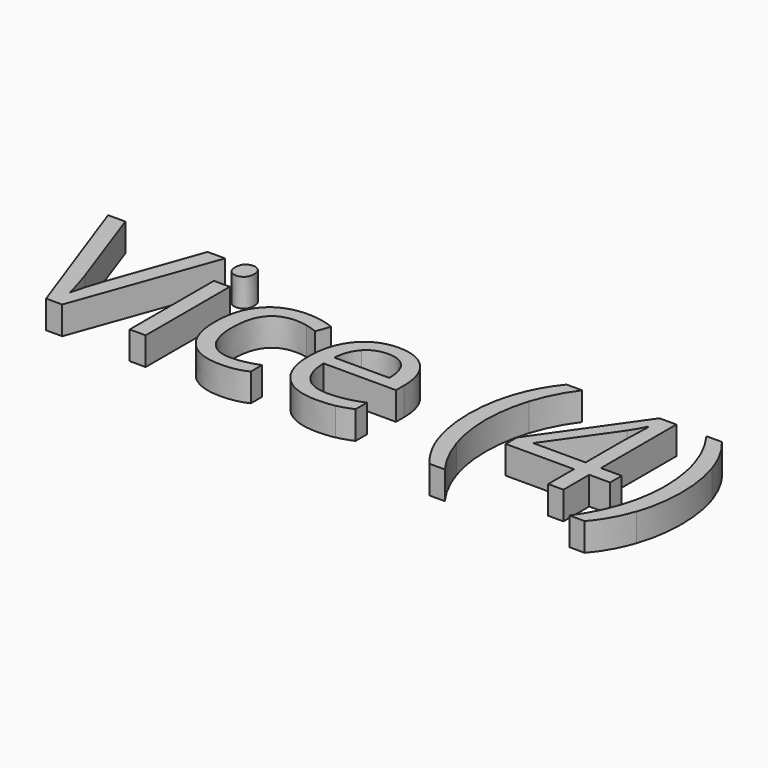
from build123d import *

# Parameters (mm, degrees)
F0_W     = 127
F0_H     = 127
F1_DEPTH = 2.54
F2_W     = 127
F2_H     = 127
F2_W_2   = 1.4493298279
F2_H_2   = 9.564459847
F3_DEPTH = 25.4


with BuildPart() as f1:
    # F0 (on Top) → F1 (new body)
    with BuildSketch(Plane.XY):
        with Locations((63.5, 63.5)):
            Rectangle(F0_W, F0_H)
    extrude(amount=F1_DEPTH)

    # F2 (on face) → F3 (cut)
    with BuildSketch(Plane.XY.offset(2.54)):
        with Locations((63.5, 63.5)):
            Rectangle(F2_W, F2_H)
        with BuildLine():
            Line((57.7609389396, 48.9270723171), (60.6763538535, 57.1315637129))
            Line((60.6763538535, 57.1315637129), (62.2708959186, 57.1315637129))
            Line((62.2708959186, 57.1315637129), (57.6743701059, 44.3724346498))
            Line((57.6743701059, 44.3724346498), (56.2082850199, 44.3724346498))
            Line((56.2082850199, 44.3724346498), (51.6340995514, 57.1315637129))
            Line((51.6340995514, 57.1315637129), (53.2063012723, 57.1315637129))
            Line((53.2063012723, 57.1315637129), (56.1384714444, 48.8768065427))
            add(Edge.make_bspline(
                [(56.1384714444, 48.8768065427), (56.6439217312, 47.452609602), (56.9399312914, 46.1093964089)],
                knots=[0, 0, 0, 1, 1, 1], degree=2))
            add(Edge.make_bspline(
                [(56.9399312914, 46.1093964089), (57.2554886528, 47.5224231775), (57.7609389396, 48.9270723171)],
                knots=[0, 0, 0, 1, 1, 1], degree=2))
        make_face(mode=Mode.SUBTRACT)
        with Locations((64.5314594941, 49.1546645733)):
            Rectangle(F2_W_2, F2_H_2, mode=Mode.SUBTRACT)
        with BuildLine():
            add(Edge.make_bspline(
                [(74.5664628402, 44.6963696402), (73.6086205839, 44.1965044395), (72.150913127, 44.1965044395)],
                knots=[0, 0, 0, 1, 1, 1], degree=2))
            add(Edge.make_bspline(
                [(72.150913127, 44.1965044395), (70.0732611193, 44.1965044395), (68.9339035667, 45.4754891431)],
                knots=[0, 0, 0, 1, 1, 1], degree=2))
            add(Edge.make_bspline(
                [(68.9339035667, 45.4754891431), (67.7945460142, 46.7544738467), (67.7945460142, 49.0946248984)],
                knots=[0, 0, 0, 1, 1, 1], degree=2))
            add(Edge.make_bspline(
                [(67.7945460142, 49.0946248984), (67.7945460142, 51.4934193534), (68.9520550964, 52.8031220303)],
                knots=[0, 0, 0, 1, 1, 1], degree=2))
            add(Edge.make_bspline(
                [(68.9520550964, 52.8031220303), (70.1095641786, 54.1128247072), (72.2458595897, 54.1128247072)],
                knots=[0, 0, 0, 1, 1, 1], degree=2))
            add(Edge.make_bspline(
                [(72.2458595897, 54.1128247072), (72.9356177159, 54.1128247072), (73.6253758421, 53.9634236555)],
                knots=[0, 0, 0, 1, 1, 1], degree=2))
            add(Edge.make_bspline(
                [(73.6253758421, 53.9634236555), (74.3151339683, 53.8140226039), (74.7060899912, 53.6129595064)],
                knots=[0, 0, 0, 1, 1, 1], degree=2))
            Line((74.7060899912, 53.6129595064), (74.2620756509, 52.3842405771))
            add(Edge.make_bspline(
                [(74.2620756509, 52.3842405771), (73.7817582512, 52.5769260456), (73.214872018, 52.7025904815)],
                knots=[0, 0, 0, 1, 1, 1], degree=2))
            add(Edge.make_bspline(
                [(73.214872018, 52.7025904815), (72.6479857847, 52.8282549175), (72.2123490734, 52.8282549175)],
                knots=[0, 0, 0, 1, 1, 1], degree=2))
            add(Edge.make_bspline(
                [(72.2123490734, 52.8282549175), (69.2969341595, 52.8282549175), (69.2969341595, 49.1113801565)],
                knots=[0, 0, 0, 1, 1, 1], degree=2))
            add(Edge.make_bspline(
                [(69.2969341595, 49.1113801565), (69.2969341595, 47.3492855102), (70.0076363583, 46.4068022406)],
                knots=[0, 0, 0, 1, 1, 1], degree=2))
            add(Edge.make_bspline(
                [(70.0076363583, 46.4068022406), (70.7183385572, 45.464318971), (72.1146100677, 45.464318971)],
                knots=[0, 0, 0, 1, 1, 1], degree=2))
            add(Edge.make_bspline(
                [(72.1146100677, 45.464318971), (73.3098184807, 45.464318971), (74.5664628402, 45.9781468869)],
                knots=[0, 0, 0, 1, 1, 1], degree=2))
            Line((74.5664628402, 45.9781468869), (74.5664628402, 44.6963696402))
        make_face(mode=Mode.SUBTRACT)
        with BuildLine():
            add(Edge.make_bspline(
                [(63.9282702015, 55.7995206919), (63.6839226872, 56.0396793917), (63.6839226872, 56.5283744204)],
                knots=[0, 0, 0, 1, 1, 1], degree=2))
            add(Edge.make_bspline(
                [(63.6839226872, 56.5283744204), (63.6839226872, 57.0254470781), (63.9282702015, 57.2572281488)],
                knots=[0, 0, 0, 1, 1, 1], degree=2))
            add(Edge.make_bspline(
                [(63.9282702015, 57.2572281488), (64.1726177159, 57.4890092196), (64.5412333947, 57.4890092196)],
                knots=[0, 0, 0, 1, 1, 1], degree=2))
            add(Edge.make_bspline(
                [(64.5412333947, 57.4890092196), (64.8903012723, 57.4890092196), (65.1430264157, 57.2530393343)],
                knots=[0, 0, 0, 1, 1, 1], degree=2))
            add(Edge.make_bspline(
                [(65.1430264157, 57.2530393343), (65.3957515591, 57.017069449), (65.3957515591, 56.5283744204)],
                knots=[0, 0, 0, 1, 1, 1], degree=2))
            add(Edge.make_bspline(
                [(65.3957515591, 56.5283744204), (65.3957515591, 56.0396793917), (65.1430264157, 55.7995206919)],
                knots=[0, 0, 0, 1, 1, 1], degree=2))
            add(Edge.make_bspline(
                [(65.1430264157, 55.7995206919), (64.8903012723, 55.5593619921), (64.5412333947, 55.5593619921)],
                knots=[0, 0, 0, 1, 1, 1], degree=2))
            add(Edge.make_bspline(
                [(64.5412333947, 55.5593619921), (64.1726177159, 55.5593619921), (63.9282702015, 55.7995206919)],
                knots=[0, 0, 0, 1, 1, 1], degree=2))
        make_face(mode=Mode.SUBTRACT)
        with BuildLine():
            add(Edge.make_bspline(
                [(82.5307955361, 44.3417166766), (81.846622496, 44.1965044395), (80.8776100677, 44.1965044395)],
                knots=[0, 0, 0, 1, 1, 1], degree=2))
            add(Edge.make_bspline(
                [(80.8776100677, 44.1965044395), (78.7580699147, 44.1965044395), (77.530747257, 45.4894518582)],
                knots=[0, 0, 0, 1, 1, 1], degree=2))
            add(Edge.make_bspline(
                [(77.530747257, 45.4894518582), (76.3034245992, 46.782399277), (76.3034245992, 49.0750770972)],
                knots=[0, 0, 0, 1, 1, 1], degree=2))
            add(Edge.make_bspline(
                [(76.3034245992, 49.0750770972), (76.3034245992, 51.3900952617), (77.4427821518, 52.7514599844)],
                knots=[0, 0, 0, 1, 1, 1], degree=2))
            add(Edge.make_bspline(
                [(77.4427821518, 52.7514599844), (78.5821397044, 54.1128247072), (80.5034093029, 54.1128247072)],
                knots=[0, 0, 0, 1, 1, 1], degree=2))
            add(Edge.make_bspline(
                [(80.5034093029, 54.1128247072), (82.2990144654, 54.1128247072), (83.3462180983, 52.9301827378)],
                knots=[0, 0, 0, 1, 1, 1], degree=2))
            add(Edge.make_bspline(
                [(83.3462180983, 52.9301827378), (84.3934217312, 51.7475407683), (84.3934217312, 49.8095159118)],
                knots=[0, 0, 0, 1, 1, 1], degree=2))
            Line((84.3934217312, 49.8095159118), (84.3934217312, 48.8935618009))
            Line((84.3934217312, 48.8935618009), (77.8058127446, 48.8935618009))
            add(Edge.make_bspline(
                [(77.8058127446, 48.8935618009), (77.8504934329, 47.2096583592), (78.657538366, 46.3369886651)],
                knots=[0, 0, 0, 1, 1, 1], degree=2))
            add(Edge.make_bspline(
                [(78.657538366, 46.3369886651), (79.464583299, 45.464318971), (80.9306683851, 45.464318971)],
                knots=[0, 0, 0, 1, 1, 1], degree=2))
            add(Edge.make_bspline(
                [(80.9306683851, 45.464318971), (82.4749446757, 45.464318971), (83.9829179071, 46.1093964089)],
                knots=[0, 0, 0, 1, 1, 1], degree=2))
            Line((83.9829179071, 46.1093964089), (83.9829179071, 44.8164489901))
            add(Edge.make_bspline(
                [(83.9829179071, 44.8164489901), (83.2149685763, 44.4869289137), (82.5307955361, 44.3417166766)],
                knots=[0, 0, 0, 1, 1, 1], degree=2))
        make_face(mode=Mode.SUBTRACT)
        with BuildLine():
            add(Edge.make_bspline(
                [(91.3608165686, 45.0105307301), (90.6878137006, 46.9918400035), (90.6878137006, 49.2677625657)],
                knots=[0, 0, 0, 1, 1, 1], degree=2))
            add(Edge.make_bspline(
                [(90.6878137006, 49.2677625657), (90.6878137006, 51.5799881871), (91.3650053832, 53.5962042483)],
                knots=[0, 0, 0, 1, 1, 1], degree=2))
            add(Edge.make_bspline(
                [(91.3650053832, 53.5962042483), (92.0421970658, 55.6124203095), (93.3155966834, 57.1315637129)],
                knots=[0, 0, 0, 1, 1, 1], degree=2))
            Line((93.3155966834, 57.1315637129), (94.728623452, 57.1315637129))
            add(Edge.make_bspline(
                [(94.728623452, 57.1315637129), (93.4719790925, 55.4476602712), (92.8394680983, 53.43144421)],
                knots=[0, 0, 0, 1, 1, 1], degree=2))
            add(Edge.make_bspline(
                [(92.8394680983, 53.43144421), (92.206957104, 51.4152281488), (92.206957104, 49.2845178238)],
                knots=[0, 0, 0, 1, 1, 1], degree=2))
            add(Edge.make_bspline(
                [(92.206957104, 49.2845178238), (92.206957104, 47.190110558), (92.8534308134, 45.1920460265)],
                knots=[0, 0, 0, 1, 1, 1], degree=2))
            add(Edge.make_bspline(
                [(92.8534308134, 45.1920460265), (93.4999045228, 43.1939814949), (94.7118681939, 41.5435885695)],
                knots=[0, 0, 0, 1, 1, 1], degree=2))
            Line((94.7118681939, 41.5435885695), (93.3155966834, 41.5435885695))
            add(Edge.make_bspline(
                [(93.3155966834, 41.5435885695), (92.0338194367, 43.0292214567), (91.3608165686, 45.0105307301)],
                knots=[0, 0, 0, 1, 1, 1], degree=2))
        make_face(mode=Mode.SUBTRACT)
        Polygon((105.1224685763, 48.6226851278), (105.1224685763, 47.3046048219), (103.229124408, 47.3046048219), (103.229124408, 44.3724346498), (101.8412305266, 44.3724346498), (101.8412305266, 47.3046048219), (95.6361999338, 47.3046048219), (95.6361999338, 48.5696268104), (101.6932257465, 57.2013772884), (103.229124408, 57.2013772884), (103.229124408, 48.6226851278), align=None, mode=Mode.SUBTRACT)
        with BuildLine():
            add(Edge.make_bspline(
                [(109.3810966834, 53.5836378047), (110.0540995514, 51.563232929), (110.0540995514, 49.2677625657)],
                knots=[0, 0, 0, 1, 1, 1], degree=2))
            add(Edge.make_bspline(
                [(110.0540995514, 49.2677625657), (110.0540995514, 46.9722922024), (109.3769078688, 44.990982929)],
                knots=[0, 0, 0, 1, 1, 1], degree=2))
            add(Edge.make_bspline(
                [(109.3769078688, 44.990982929), (108.6997161862, 43.0096736555), (107.4263165686, 41.5435885695)],
                knots=[0, 0, 0, 1, 1, 1], degree=2))
            Line((107.4263165686, 41.5435885695), (106.0300450581, 41.5435885695))
            add(Edge.make_bspline(
                [(106.0300450581, 41.5435885695), (107.2420087293, 43.1856038659), (107.8884824386, 45.1878572119)],
                knots=[0, 0, 0, 1, 1, 1], degree=2))
            add(Edge.make_bspline(
                [(107.8884824386, 45.1878572119), (108.534956148, 47.190110558), (108.534956148, 49.2845178238)],
                knots=[0, 0, 0, 1, 1, 1], degree=2))
            add(Edge.make_bspline(
                [(108.534956148, 49.2845178238), (108.534956148, 51.4152281488), (107.9024451537, 53.43144421)],
                knots=[0, 0, 0, 1, 1, 1], degree=2))
            add(Edge.make_bspline(
                [(107.9024451537, 53.43144421), (107.2699341595, 55.4476602712), (106.0132898, 57.1315637129)],
                knots=[0, 0, 0, 1, 1, 1], degree=2))
            Line((106.0132898, 57.1315637129), (107.4263165686, 57.1315637129))
            add(Edge.make_bspline(
                [(107.4263165686, 57.1315637129), (108.7080938153, 55.6040426804), (109.3810966834, 53.5836378047)],
                knots=[0, 0, 0, 1, 1, 1], degree=2))
        make_face(mode=Mode.SUBTRACT)
        with BuildLine():
            Line((97.0855297618, 48.6226851278), (101.8412305266, 48.6226851278))
            Line((101.8412305266, 48.6226851278), (101.8412305266, 52.8645579768))
            add(Edge.make_bspline(
                [(101.8412305266, 52.8645579768), (101.8412305266, 54.1128247072), (101.9305919033, 55.682233885)],
                knots=[0, 0, 0, 1, 1, 1], degree=2))
            Line((101.9305919033, 55.682233885), (101.8607783277, 55.682233885))
            add(Edge.make_bspline(
                [(101.8607783277, 55.682233885), (101.4418968746, 54.8444709787), (101.0732811958, 54.2943400035)],
                knots=[0, 0, 0, 1, 1, 1], degree=2))
            Line((101.0732811958, 54.2943400035), (97.0855297618, 48.6226851278))
        make_face()
        with BuildLine():
            add(Edge.make_bspline(
                [(82.2305971614, 52.1692147645), (81.6204265113, 52.898068493), (80.4838615017, 52.898068493)],
                knots=[0, 0, 0, 1, 1, 1], degree=2))
            add(Edge.make_bspline(
                [(80.4838615017, 52.898068493), (79.3333337771, 52.898068493), (78.6477644654, 52.1482706919)],
                knots=[0, 0, 0, 1, 1, 1], degree=2))
            add(Edge.make_bspline(
                [(78.6477644654, 52.1482706919), (77.9621951537, 51.3984728907), (77.8393232608, 50.0720149557)],
                knots=[0, 0, 0, 1, 1, 1], degree=2))
            Line((77.8393232608, 50.0720149557), (82.8407678115, 50.0720149557))
            add(Edge.make_bspline(
                [(82.8407678115, 50.0720149557), (82.8407678115, 51.440361036), (82.2305971614, 52.1692147645)],
                knots=[0, 0, 0, 1, 1, 1], degree=2))
        make_face()
    extrude(amount=-F3_DEPTH, mode=Mode.SUBTRACT)


solid = f1.part
